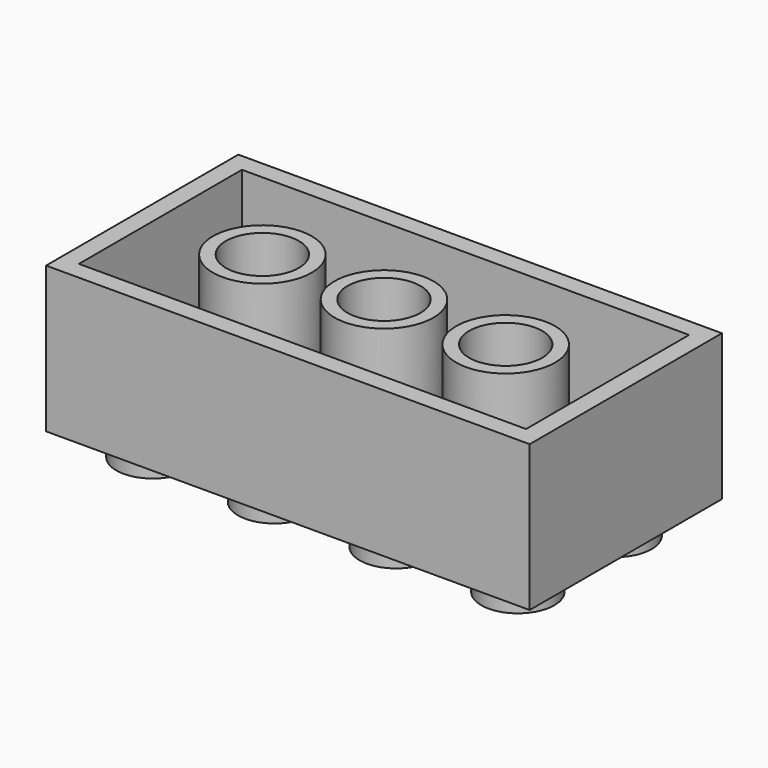
from build123d import *

# Parameters (mm, degrees)
F0_W     = 807.72
F0_H     = 401.32
F1_DEPTH = 243.84
F2_R     = 60.96
F3_DEPTH = 45.72
F5_W     = 746.76
F5_H     = 340.36
F6_DEPTH = 213.36
F7_W     = 746.76
F7_H     = 340.36
F7_R     = 82.55
F4_R     = 60.96
F8_DEPTH = 213.36


with BuildPart() as f1:
    # F0 (on Top) → F1 (new body)
    with BuildSketch(Plane.XY):
        with Locations((25.23192, -14.655366)):
            Rectangle(F0_W, F0_H)
    extrude(amount=-F1_DEPTH)

    # F2 (on face) → F3 (join)
    with BuildSketch(Plane(origin=(0, 0, -243.84), x_dir=(1, 0, 0), z_dir=(0, 0, -1))):
        with Locations((-279.56808, 116.255366)):
            Circle(F2_R)
        with Locations((-279.56808, -86.944634)):
            Circle(F2_R)
        with Locations((-76.36808, 116.255366)):
            Circle(F2_R)
        with Locations((-76.36808, -86.944634)):
            Circle(F2_R)
        with Locations((126.83192, 116.255366)):
            Circle(F2_R)
        with Locations((126.83192, -86.944634)):
            Circle(F2_R)
        with Locations((330.03192, 116.255366)):
            Circle(F2_R)
        with Locations((330.03192, -86.944634)):
            Circle(F2_R)
    extrude(amount=F3_DEPTH)

    # F5 (on face) → F6 (join)
    with BuildSketch(Plane.XY):
        with Locations((25.23192, -14.655366)):
            Rectangle(F5_W, F5_H)
    extrude(amount=-F6_DEPTH)

    # F7 (on face) + F4 (on face) → F8 (cut)
    with BuildSketch(Plane.XY):
        with Locations((25.23192, -14.655366)):
            Rectangle(F7_W, F7_H)
        with Locations((-177.96808, -14.655366)):
            Circle(F7_R, mode=Mode.SUBTRACT)
        with Locations((25.23192, -14.655366)):
            Circle(F7_R, mode=Mode.SUBTRACT)
        with Locations((228.43192, -14.655366)):
            Circle(F7_R, mode=Mode.SUBTRACT)
    with BuildSketch(Plane.XY):
        with Locations((228.43192, -14.655366)):
            Circle(F4_R)
        with Locations((-177.96808, -14.655366)):
            Circle(F4_R)
        with Locations((25.23192, -14.655366)):
            Circle(F4_R)
    extrude(amount=-F8_DEPTH, mode=Mode.SUBTRACT)


solid = f1.part
